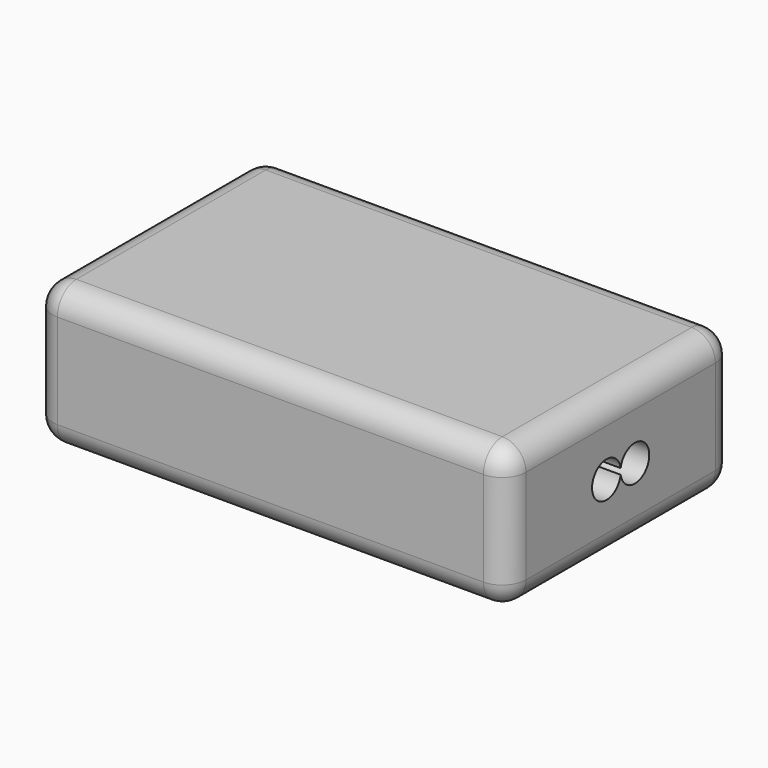
from build123d import *

# Parameters (mm, degrees)
F1_DEPTH = 1.5
F2_R     = 0.5
F4_DEPTH = 15


with BuildPart() as f1:
    # F0 (on Top) → F1 (new body, symmetric)
    with BuildSketch(Plane.XY):
        with BuildLine():
            ThreePointArc((-5, -2.5), (-4.8535533906, -2.8535533906), (-4.5, -3))
            Line((-4.5, -3), (4.5, -3))
            ThreePointArc((4.5, -3), (4.8535533906, -2.8535533906), (5, -2.5))
            Line((5, -2.5), (5, 2.5))
            ThreePointArc((5, 2.5), (4.8535533906, 2.8535533906), (4.5, 3))
            Line((4.5, 3), (-4.5, 3))
            ThreePointArc((-4.5, 3), (-4.8535533906, 2.8535533906), (-5, 2.5))
            Line((-5, 2.5), (-5, -2.5))
        make_face()
    extrude(amount=F1_DEPTH, both=True)

    # F2
    f2_edges = [f1.edges().sort_by_distance(p)[0] for p in [
        (0, 3, 1.5),
        (-5, 0, -1.5),
    ]]
    fillet(f2_edges, radius=F2_R)

    # F3 (on Right) → F4 (cut, symmetric)
    with BuildSketch(Plane.YZ):
        with BuildLine():
            ThreePointArc((0, -0.0614410286), (0.0037479373, -0.03082207), (0.005, 0))
            ThreePointArc((0.005, 0), (0.0037479373, 0.03082207), (0, 0.0614410286))
            ThreePointArc((0, 0.0614410286), (-0.005, 0), (0, -0.0614410286))
        make_face()
        with BuildLine():
            ThreePointArc((0, 0.0614410286), (0.0037479373, 0.03082207), (0.005, 0))
            ThreePointArc((0.005, 0), (0.0037479373, -0.03082207), (0, -0.0614410286))
            ThreePointArc((0, -0.0614410286), (0.40582207, -0.3787479373), (0.755, 0))
            ThreePointArc((0.755, 0), (0.40582207, 0.3787479373), (0, 0.0614410286))
        make_face()
        with BuildLine():
            ThreePointArc((0, -0.0614410286), (-0.005, 0), (0, 0.0614410286))
            ThreePointArc((0, 0.0614410286), (-0.755, 0), (0, -0.0614410286))
        make_face()
    extrude(amount=F4_DEPTH, both=True, mode=Mode.SUBTRACT)


solid = f1.part
